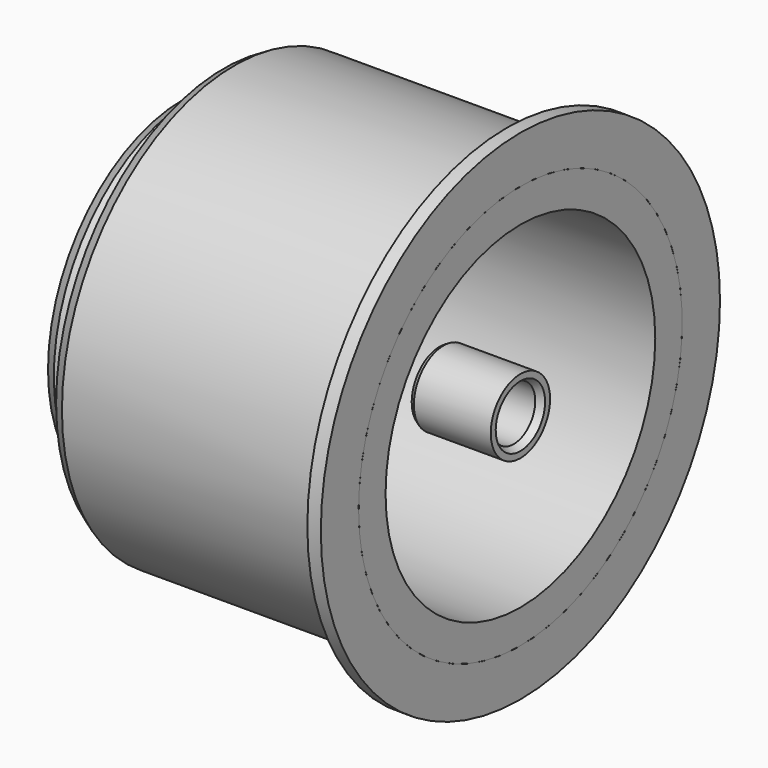
from build123d import *


with BuildPart() as f1:
    # F0 (on Front) → F1 (revolve)
    with BuildSketch(Plane.XZ):
        with BuildLine():
            Line((0, -15), (0, -12.5))
            Line((0, -12.5), (-25, -12.5))
            Line((-25, -12.5), (-25, -12.53812))
            Line((-25, -12.53812), (-24.2, -13))
            Line((-24.2, -13), (-1, -13))
            ThreePointArc((-1, -13), (-0.646447, -13.146447), (-0.5, -13.5))
            Line((-0.5, -13.5), (-0.5, -15))
            Line((-0.5, -15), (0, -15))
        make_face()
    revolve(axis=Axis((-12.5, 0, 0), (-1, 0, 0)))


with BuildPart() as f3:
    # F2 (on Front) → F3 (revolve)
    with BuildSketch(Plane.XZ):
        Polygon((0, -2.75), (0, -2.288675), (-0.5, -2), (-6, -2), (-6, -2.576795), (-5.7, -2.75), align=None)
    revolve(axis=Axis((-3, 0, 0), (-1, 0, 0)))


with BuildPart() as f5:
    # F4 (on Top) → F5 (revolve)
    with BuildSketch(Plane.XY):
        with BuildLine():
            Line((0, -18.5), (0, -15))
            Line((0, -15), (-22, -15))
            Line((-22, -15), (-22, -15.53812))
            Line((-22, -15.53812), (-21.2, -16))
            Line((-21.2, -16), (-1.5, -16))
            ThreePointArc((-1.5, -16), (-1.146447, -16.146447), (-1, -16.5))
            Line((-1, -16.5), (-1, -18.5))
            Line((-1, -18.5), (0, -18.5))
        make_face()
    revolve(axis=Axis((-11, 0, 0), (-1, 0, 0)))


solid = Compound([f1.part, f3.part, f5.part])
